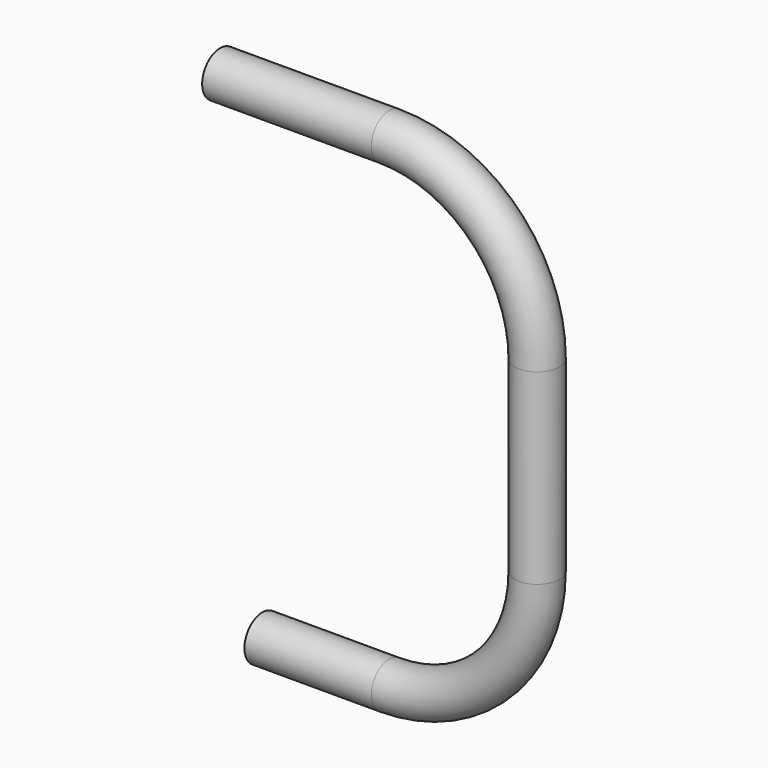
from build123d import *

# Parameters (mm, degrees)
F1_R   = 21.2
F1_R_2 = 18


with BuildPart() as f2:
    # F2: sweep along a path in F0
    with BuildLine(Plane.XZ) as f2_path:
        Line((0, 0), (160, 0))
        ThreePointArc((160, 0), (258.994949, -41.005051), (300, -140))
        Line((300, -140), (300, -317))
        ThreePointArc((300, -317), (258.994949, -415.994949), (160, -457))
        Line((160, -457), (40, -457))
    # F1 (on Right) → F2 (sweep)
    with BuildSketch(Plane.YZ):
        Circle(F1_R)
        Circle(F1_R_2, mode=Mode.SUBTRACT)
    sweep(path=f2_path.line)


solid = f2.part
